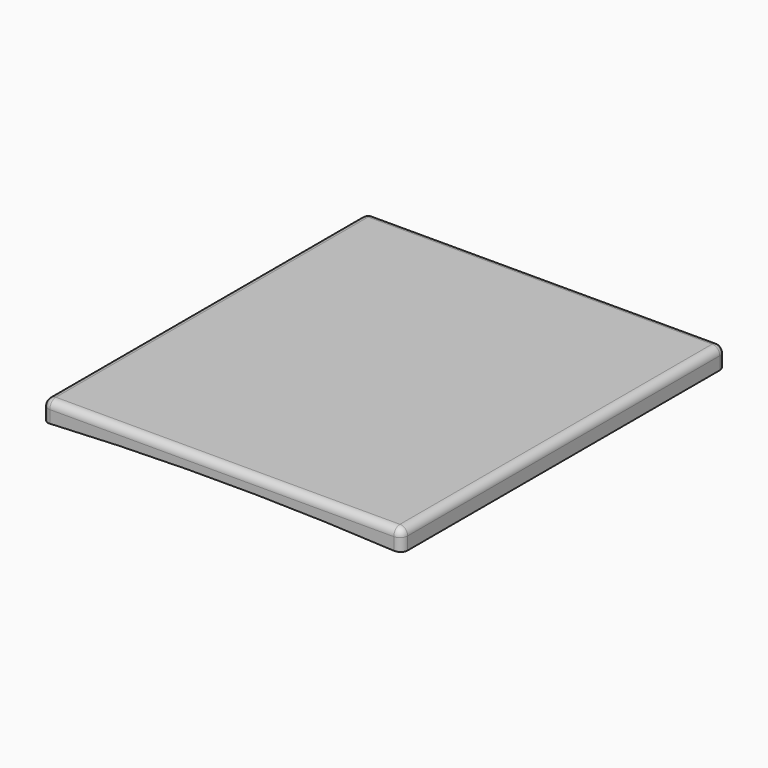
from build123d import *

# Parameters (mm, degrees)
F1_DEPTH = 79
F2_R     = 1.5


with BuildPart() as f1:
    # F0 (on Front) → F1 (new body)
    with BuildSketch(Plane.XZ):
        with BuildLine():
            Line((33.5, 3), (-33.5, 3))
            ThreePointArc((-33.5, 3), (-34.56066, 2.56066), (-35, 1.5))
            Line((-35, 1.5), (-35, -1))
            ThreePointArc((-35, -1), (0, 0), (35, -1))
            Line((35, -1), (35, 1.5))
            ThreePointArc((35, 1.5), (34.56066, 2.56066), (33.5, 3))
        make_face()
    extrude(amount=F1_DEPTH)

    # F2
    f2_edges = [f1.edges().sort_by_distance(p)[0] for p in [
        (33.5, -39.5, 3),
        (35, -39.5, 1.5),
        (34.56066, 0, 2.56066),
        (34.56066, -79, 2.56066),
    ]]
    fillet(f2_edges, radius=F2_R)


solid = f1.part
